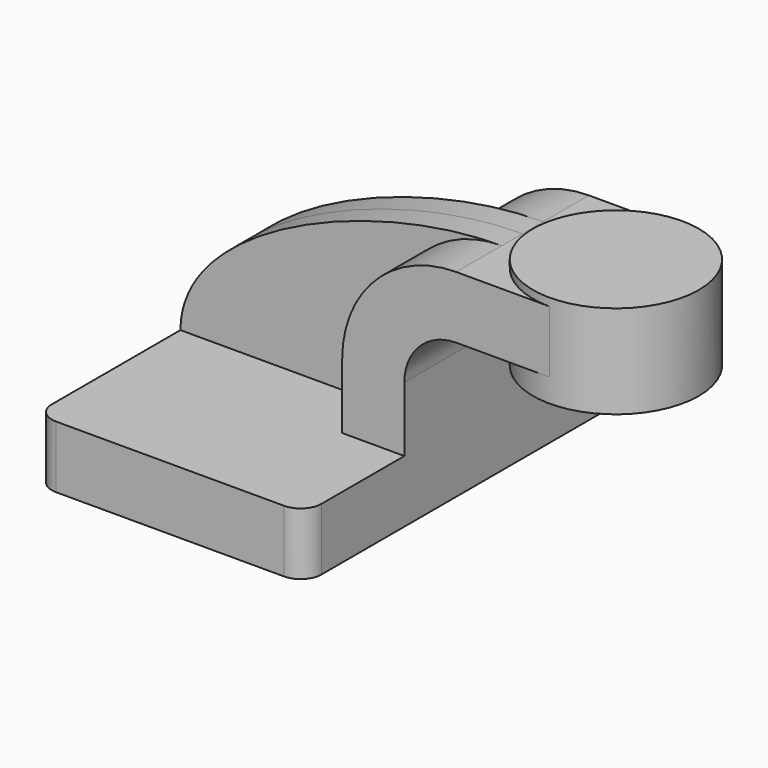
from build123d import *

# Parameters (mm, degrees)
F1_DEPTH = 63.5
F0_W     = 25.4
F0_H     = 19.05
F2_DEPTH = 25.4
F3_DEPTH = 7.9375
F5_R     = 6.35


with BuildPart() as f1:
    # F0 (on Front) → F1 (new body, symmetric)
    with BuildSketch(Plane.XZ):
        Polygon((22.225, 9.525), (-41.275, 9.525), (-41.275, -9.525), (41.275, -9.525), (41.275, 9.525), align=None)
    extrude(amount=F1_DEPTH, both=True)

    # F0 (on Front) → F2 (join, symmetric)
    with BuildSketch(Plane.XZ):
        with BuildLine():
            Line((57.15, 45.2454016253), (60.325, 45.2454016253))
            Line((60.325, 45.2454016253), (60.325, 64.2954016253))
            Line((60.325, 64.2954016253), (57.15, 64.2954016253))
            ThreePointArc((57.15, 64.2954016253), (32.4542956671, 54.0661059583), (22.225, 29.3704016253))
            Line((22.225, 29.3704016253), (22.225, 9.525))
            Line((22.225, 9.525), (41.275, 9.525))
            Line((41.275, 9.525), (41.275, 29.3704016253))
            ThreePointArc((41.275, 29.3704016253), (45.9246798487, 40.5957217767), (57.15, 45.2454016253))
        make_face()
        with Locations((73.025, 54.7704016253)):
            Rectangle(F0_W, F0_H)
    extrude(amount=F2_DEPTH, both=True)

    # F0 (on Front) → F3 (join, symmetric)
    with BuildSketch(Plane.XZ):
        with BuildLine():
            ThreePointArc((22.225, 29.3704016253), (32.4542956671, 54.0661059583), (57.15, 64.2954016253))
            add(Edge.make_bspline(
                [(-41.275, 9.525), (-41.275, 40.0696797542), (16.9853791595, 64.2954016253), (57.15, 64.2954016253)],
                knots=[0, 0, 0, 0, 112.6378156713, 112.6378156713, 112.6378156713, 112.6378156713], degree=3))
            Line((-41.275, 9.525), (22.225, 9.525))
            Line((22.225, 9.525), (22.225, 29.3704016253))
        make_face()
    extrude(amount=F3_DEPTH, both=True)

    # F0 (on Front) → F4 (revolve)
    with BuildSketch(Plane.XZ):
        Polygon((85.725, 45.2454016253), (85.725, 38.1), (111.125, 38.1), (111.125, 66.675), (85.725, 66.675), (85.725, 64.2954016253), align=None)
    revolve(axis=Axis((85.725, 0, 52.3875), (0, 0, 1)))

    # F5
    f5_edges = [f1.edges().sort_by_distance(p)[0] for p in [
        (-41.275, -63.5, 0),
        (41.275, -63.5, 0),
        (41.275, 63.5, 0),
        (-41.275, 63.5, 0),
    ]]
    fillet(f5_edges, radius=F5_R)


solid = f1.part
